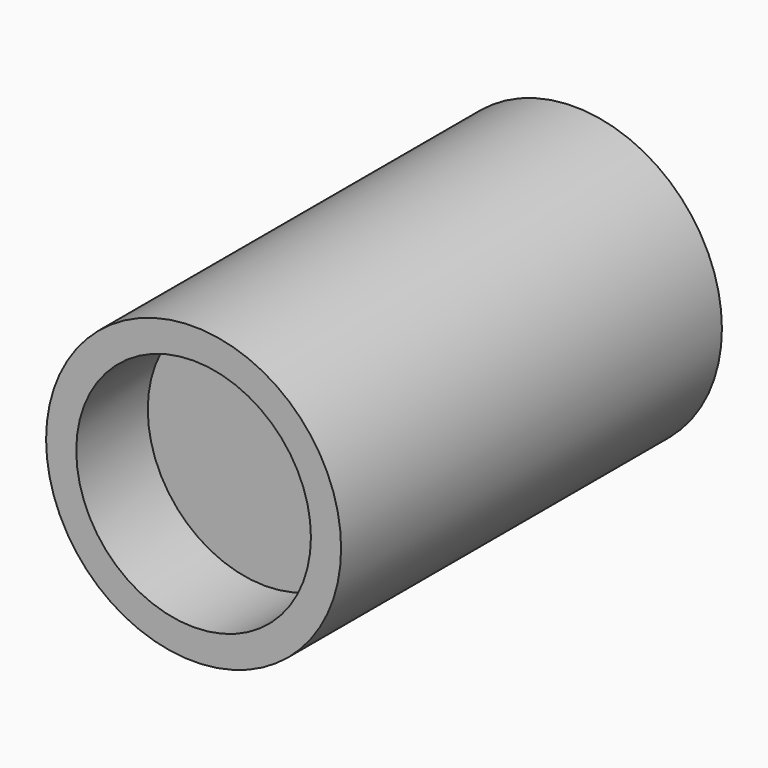
from build123d import *

# Parameters (mm, degrees)
F0_R     = 0.66
F1_DEPTH = 2.13
F2_R     = 0.525
F3_DEPTH = 0.4
F4_R     = 0.525
F5_DEPTH = 0.4


with BuildPart() as f1:
    # F0 (on Front) → F1 (new body)
    with BuildSketch(Plane.XZ):
        Circle(F0_R)
    extrude(amount=F1_DEPTH)

    # F2 (on face) → F3 (cut)
    with BuildSketch(Plane(origin=(0, 0, 0), x_dir=(-1, 0, 0), z_dir=(0, 1, 0))):
        Circle(F2_R)
    extrude(amount=-F3_DEPTH, mode=Mode.SUBTRACT)

    # F4 (on face) → F5 (cut)
    with BuildSketch(Plane.XZ.offset(2.13)):
        Circle(F4_R)
    extrude(amount=-F5_DEPTH, mode=Mode.SUBTRACT)


solid = f1.part
